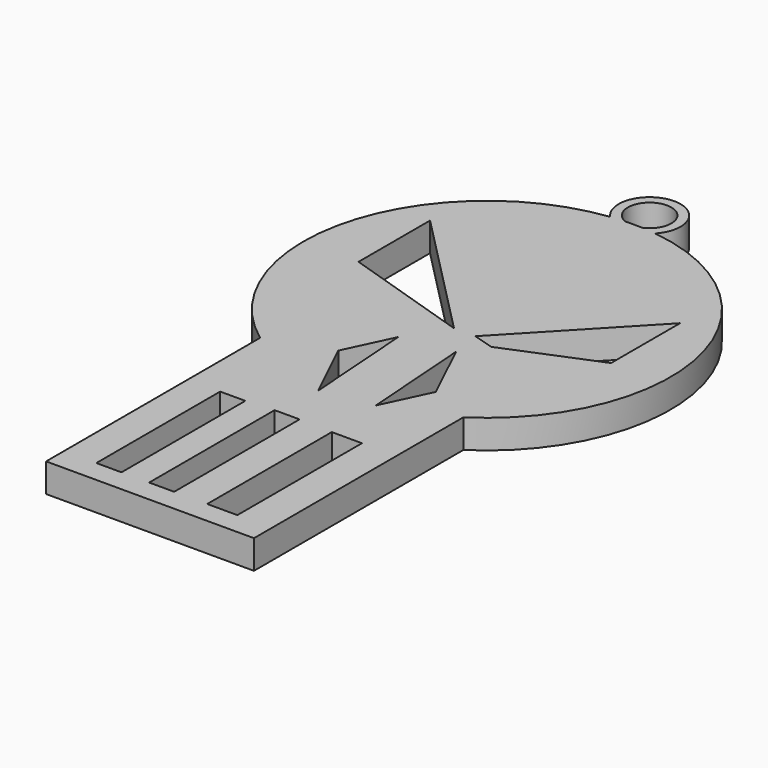
from build123d import *

# Parameters (mm, degrees)
F0_R      = 5.45168
F1_DEPTH  = 5.08
F2_R      = 3.834329
F3_DEPTH  = 25.4
F4_R      = 32.422249
F5_DEPTH  = 5.08
F6_W      = 36.716256
F6_H      = 65.308068
F7_DEPTH  = 5.08
F9_W      = 4.441859
F9_H      = 27.334548
F9_W_2    = 4.413207
F9_H_2    = 27.691893
F9_W_3    = 5.325806
F9_H_3    = 27.507089
F10_DEPTH = 25.4
F12_DEPTH = 25.4
F14_DEPTH = 25.4


with BuildPart() as f1:
    # F0 (on Top) → F1 (new body)
    with BuildSketch(Plane.XY):
        Circle(F0_R)
    extrude(amount=F1_DEPTH)

    # F2 (on face) → F3 (cut)
    with BuildSketch(Plane.XY.offset(5.08)):
        Circle(F2_R)
    extrude(amount=-F3_DEPTH, mode=Mode.SUBTRACT)

    # F4 (on Top) → F5 (join)
    with BuildSketch(Plane.XY):
        with Locations((0, -35.921536)):
            Circle(F4_R)
    extrude(amount=F5_DEPTH)

    # F6 (on Top) → F7 (join)
    with BuildSketch(Plane.XY):
        with Locations((-0.742003, -76.719692)):
            Rectangle(F6_W, F6_H)
    extrude(amount=F7_DEPTH)

    # F9 (on face) → F10 (cut)
    with BuildSketch(Plane.XY.offset(5.08)):
        with Locations((-11.158781, -91.761265)):
            Rectangle(F9_W, F9_H)
        with Locations((-1.842302, -91.582593)):
            Rectangle(F9_W_2, F9_H_2)
        with Locations((8.863835, -91.674994)):
            Rectangle(F9_W_3, F9_H_3)
    extrude(amount=-F10_DEPTH, mode=Mode.SUBTRACT)

    # F11 (on face) → F12 (cut)
    with BuildSketch(Plane.XY.offset(5.08)):
        Polygon((9.909331, -59.593312), (4.586765, -48.460342), (5.977736, -67.931563), align=None)
        Polygon((-8.305341, -58.362357), (-2.982776, -69.495328), (-4.373746, -50.024107), align=None)
    extrude(amount=-F12_DEPTH, mode=Mode.SUBTRACT)

    # F13 (on face) → F14 (cut)
    with BuildSketch(Plane.XY.offset(5.08)):
        Polygon((23.395628, -22.520874), (3.782702, -43.190122), (7.484366, -44.308007), (23.395628, -37.764173), align=None)
        Polygon((0, -43.190122), (-22.690315, -20.113243), (-22.690315, -35.91549), align=None)
    extrude(amount=-F14_DEPTH, mode=Mode.SUBTRACT)


solid = f1.part
